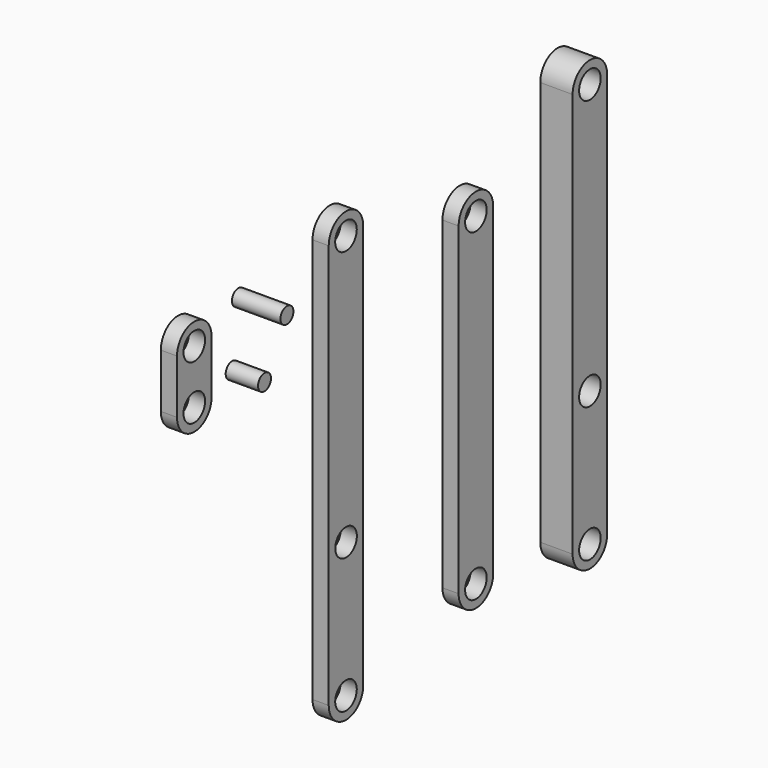
from build123d import *

# Parameters (mm, degrees)
F0_R      = 2.5
F1_DEPTH  = 3
F2_R      = 1.5
F3_DEPTH  = 9
F4_R      = 2.5
F5_DEPTH  = 3
F6_R      = 2.5
F7_DEPTH  = 3
F8_R      = 2.5
F9_DEPTH  = 6
F10_R     = 1.5
F11_DEPTH = 6


with BuildPart() as f1:
    # F0 (on Right) → F1 (new body)
    with BuildSketch(Plane.YZ):
        with BuildLine():
            Line((-49.342894, 28.537845), (-49.342894, 38.537845))
            ThreePointArc((-49.342894, 38.537845), (-53.342894, 42.537845), (-57.342894, 38.537845))
            Line((-57.342894, 38.537845), (-57.342894, 28.537845))
            ThreePointArc((-57.342894, 28.537845), (-53.342894, 24.537845), (-49.342894, 28.537845))
        make_face()
        with Locations((-53.342894, 28.537845)):
            Circle(F0_R, mode=Mode.SUBTRACT)
        with Locations((-53.342894, 38.537845)):
            Circle(F0_R, mode=Mode.SUBTRACT)
    extrude(amount=F1_DEPTH)


with BuildPart() as f3:
    # F2 (on Right) → F3 (new body)
    with BuildSketch(Plane.YZ):
        with Locations((-39.375003, 39.856654)):
            Circle(F2_R)
    extrude(amount=F3_DEPTH)


with BuildPart() as f5:
    # F4 (on Right) → F5 (new body)
    with BuildSketch(Plane.YZ):
        with BuildLine():
            Line((-14.199558, -32.751966), (-14.199558, 42.248034))
            ThreePointArc((-14.199558, 42.248034), (-18.199558, 46.248034), (-22.199558, 42.248034))
            Line((-22.199558, 42.248034), (-22.199558, -32.751966))
            ThreePointArc((-22.199558, -32.751966), (-18.199558, -36.751966), (-14.199558, -32.751966))
        make_face()
        with Locations((-18.199558, -32.751966)):
            Circle(F4_R, mode=Mode.SUBTRACT)
        with Locations((-18.182341, -7.751966)):
            Circle(F4_R, mode=Mode.SUBTRACT)
        with Locations((-18.199558, 42.248034)):
            Circle(F4_R, mode=Mode.SUBTRACT)
    extrude(amount=F5_DEPTH)


with BuildPart() as f7:
    # F6 (on Right) → F7 (new body)
    with BuildSketch(Plane.YZ):
        with BuildLine():
            Line((15.898968, -26.764068), (15.898968, 33.235932))
            ThreePointArc((15.898968, 33.235932), (11.898968, 37.235932), (7.898968, 33.235932))
            Line((7.898968, 33.235932), (7.898968, -26.764068))
            ThreePointArc((7.898968, -26.764068), (11.898968, -30.764068), (15.898968, -26.764068))
        make_face()
        with Locations((11.898968, -26.764068)):
            Circle(F6_R, mode=Mode.SUBTRACT)
        with Locations((11.898968, 33.235932)):
            Circle(F6_R, mode=Mode.SUBTRACT)
    extrude(amount=F7_DEPTH)


with BuildPart() as f9:
    # F8 (on Right) → F9 (new body)
    with BuildSketch(Plane.YZ):
        with BuildLine():
            Line((38.55849, -28.539389), (38.55849, 46.460611))
            ThreePointArc((38.55849, 46.460611), (34.55849, 50.460611), (30.55849, 46.460611))
            Line((30.55849, 46.460611), (30.55849, -28.539389))
            ThreePointArc((30.55849, -28.539389), (34.55849, -32.539389), (38.55849, -28.539389))
        make_face()
        with Locations((34.55849, -28.539389)):
            Circle(F8_R, mode=Mode.SUBTRACT)
        with Locations((34.55849, -3.539389)):
            Circle(F8_R, mode=Mode.SUBTRACT)
        with Locations((34.55849, 46.460611)):
            Circle(F8_R, mode=Mode.SUBTRACT)
    extrude(amount=F9_DEPTH)


with BuildPart() as f11:
    # F10 (on Right) → F11 (new body)
    with BuildSketch(Plane.YZ):
        with Locations((-40.819954, 28.537845)):
            Circle(F10_R)
    extrude(amount=F11_DEPTH)


solid = Compound([f1.part, f3.part, f5.part, f7.part, f9.part, f11.part])
